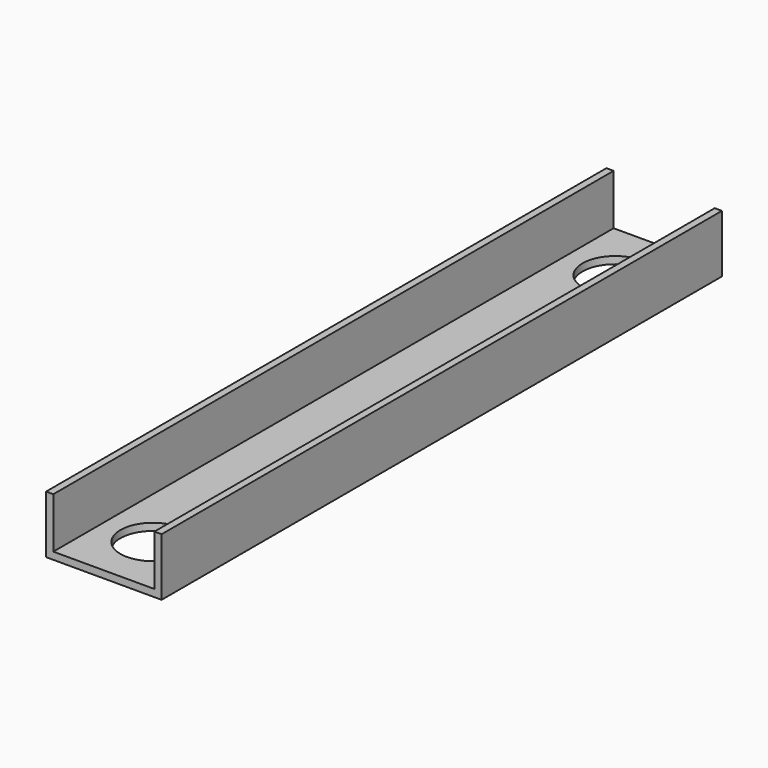
from build123d import *

# Parameters (mm, degrees)
F1_DEPTH = 307.975
F2_R     = 14.2875
F3_DEPTH = 25.4
F4_D     = 6.7564
F4_DEPTH = 76.2
F4_TIP   = 2.0298273432


with BuildPart() as f1:
    # F0 (on Front) → F1 (new body)
    with BuildSketch(Plane.XZ):
        Polygon((-41.1849285887, 22.8587505986), (-44.3599285887, 22.8587505986), (-44.3599285887, -2.5412494014), (6.4400714113, -2.5412494014), (6.4400714113, 22.8587505986), (3.2650714113, 22.8587505986), (3.2650714113, 0.6337505986), (-41.1849285887, 0.6337505986), align=None)
    extrude(amount=F1_DEPTH)

    # F2 (on face) → F3 (cut)
    with BuildSketch(Plane(origin=(0, 0, -2.5412494014), x_dir=(1, 0, 0), z_dir=(0, 0, -1))):
        with Locations((-18.9599285887, 280.9875)):
            Circle(F2_R)
        with Locations((-18.9599285887, 26.9875)):
            Circle(F2_R)
    extrude(amount=-F3_DEPTH, mode=Mode.SUBTRACT)

    # F4
    with Locations(Plane(origin=(0, 0, -2.5412494014), x_dir=(1, 0, 0), z_dir=(0, 0, -1))):
        with Locations((-18.9599285887, 217.4875), (-18.9599285887, 115.8875)):
            Hole(F4_D / 2, depth=F4_DEPTH)
            with Locations((0, 0, -(F4_DEPTH + F4_TIP / 2))):  # 118° drill point
                Cone(0, F4_D / 2, F4_TIP, mode=Mode.SUBTRACT)


solid = f1.part
